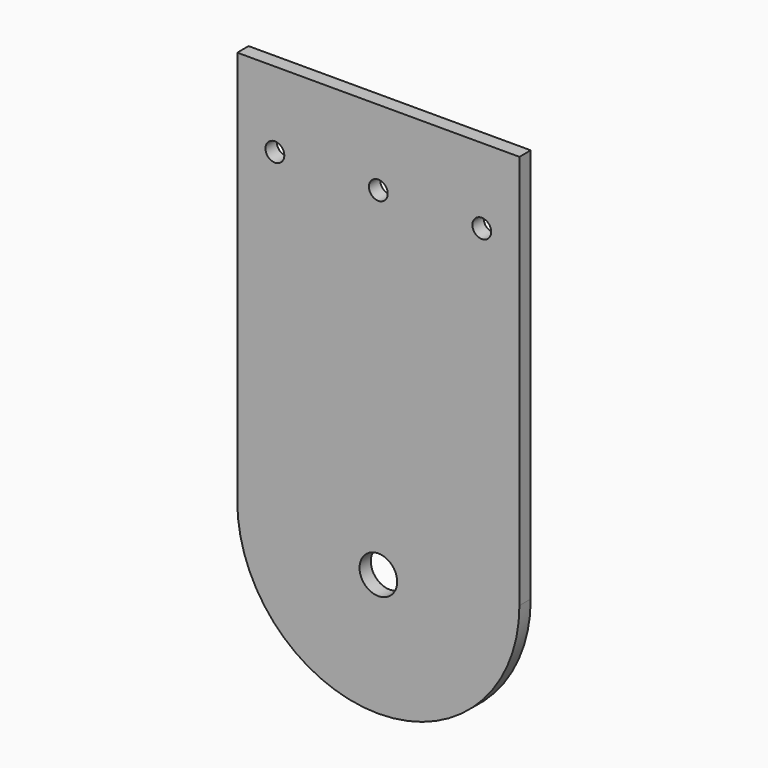
from build123d import *

# Parameters (mm, degrees)
F0_R     = 6.35
F0_R_2   = 3.175
F1_DEPTH = 4.7752


with BuildPart() as f1:
    # F0 (on Front) → F1 (new body)
    with BuildSketch(Plane.XZ):
        with BuildLine():
            Line((47.625, 90.4875), (-47.625, 90.4875))
            Line((-47.625, 90.4875), (-47.625, -42.8625))
            ThreePointArc((-47.625, -42.8625), (-33.67596, -76.53846), (0, -90.4875))
            ThreePointArc((0, -90.4875), (33.67596, -76.53846), (47.625, -42.8625))
            Line((47.625, -42.8625), (47.625, 90.4875))
        make_face()
        with Locations((0, -49.2125)):
            Circle(F0_R, mode=Mode.SUBTRACT)
        with Locations((-34.925, 65.0875)):
            Circle(F0_R_2, mode=Mode.SUBTRACT)
        with Locations((0, 65.0875)):
            Circle(F0_R_2, mode=Mode.SUBTRACT)
        with Locations((34.925, 65.0875)):
            Circle(F0_R_2, mode=Mode.SUBTRACT)
    extrude(amount=F1_DEPTH)


solid = f1.part
